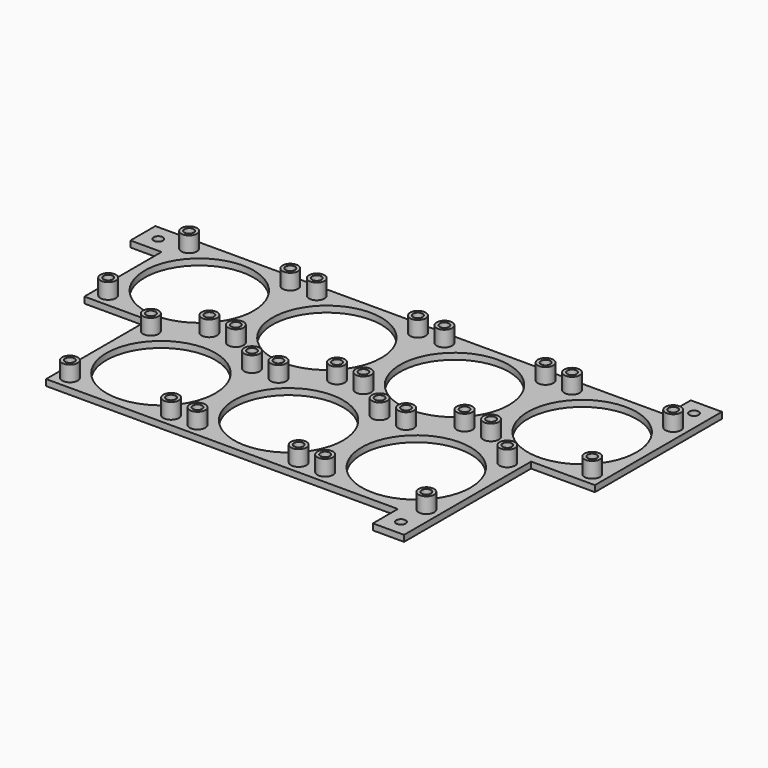
from build123d import *

# Parameters (mm, degrees)
SKETCH_R     = 17.5
PAD_DEPTH    = 2
SKETCH002_W  = 10
SKETCH002_H  = 2
PAD003_DEPTH = 10
SKETCH003_W  = 10
SKETCH003_H  = 2
PAD004_DEPTH = 10
SKETCH006_W  = 10
SKETCH006_H  = 2
PAD007_DEPTH = 10
SKETCH001_R  = 2.5
PAD006_DEPTH = 5
SKETCH005_R  = 1.5
POCKET_DEPTH = 7.001


with BuildPart() as part:
    # Sketch → Pad (new body)
    with BuildSketch(Plane.XY):
        Polygon((0, 0), (0, 20.5), (0, 41), (20.5, 41), (41, 41), (61.5, 41), (82, 41), (102.5, 41), (82, 41), (102.5, 41), (123, 41), (143.5, 41), (164, 41), (164, 20.5), (164, 0), (143.5, 0), (143.5, -20.5), (143.5, -41), (123, -41), (102.5, -41), (82, -41), (61.5, -41), (41, -41), (20.5, -41), (20.5, -20.5), (20.5, 0), align=None)
        with Locations((20.5, 20.5)):
            Circle(SKETCH_R, mode=Mode.SUBTRACT)
        with Locations((61.5, 20.5)):
            Circle(SKETCH_R, mode=Mode.SUBTRACT)
        with Locations((102.5, 20.5)):
            Circle(SKETCH_R, mode=Mode.SUBTRACT)
        with Locations((143.5, 20.5)):
            Circle(SKETCH_R, mode=Mode.SUBTRACT)
        with Locations((41, -20.5)):
            Circle(SKETCH_R, mode=Mode.SUBTRACT)
        with Locations((82, -20.5)):
            Circle(SKETCH_R, mode=Mode.SUBTRACT)
        with Locations((123, -20.5)):
            Circle(SKETCH_R, mode=Mode.SUBTRACT)
    extrude(amount=PAD_DEPTH)

    # Sketch002 → Pad003 (join)
    with BuildSketch(Plane(origin=(0, 0, 0), x_dir=(0, -1, 0), z_dir=(-1, 0, 0))):
        with Locations((-36, 1)):
            Rectangle(SKETCH002_W, SKETCH002_H)
    extrude(amount=PAD003_DEPTH)

    # Sketch003 (on Face14 of Pad003) → Pad004 (join)
    with BuildSketch(Plane.XZ.offset(41)):
        with Locations((138.5, 1)):
            Rectangle(SKETCH003_W, SKETCH003_H)
    extrude(amount=PAD004_DEPTH)

    # Sketch006 (on Face8 of Pad004) → Pad007 (join)
    with BuildSketch(Plane(origin=(0, 41, 0), x_dir=(-1, 0, 0), z_dir=(0, 1, 0))):
        with Locations((-159, 1)):
            Rectangle(SKETCH006_W, SKETCH006_H)
    extrude(amount=PAD007_DEPTH)

    # Sketch001 (on Face35 of Pad) → Pad006 (join)
    with BuildSketch(Plane.XY.offset(2)):
        with Locations((4.25, 36.75)):
            Circle(SKETCH001_R)
        with Locations((36.75, 36.75)):
            Circle(SKETCH001_R)
        with Locations((4.25, 4.25)):
            Circle(SKETCH001_R)
        with Locations((36.75, 4.25)):
            Circle(SKETCH001_R)
        with Locations((45.25, 36.75)):
            Circle(SKETCH001_R)
        with Locations((77.75, 36.75)):
            Circle(SKETCH001_R)
        with Locations((45.25, 4.25)):
            Circle(SKETCH001_R)
        with Locations((77.75, 4.25)):
            Circle(SKETCH001_R)
        with Locations((86.25, 36.75)):
            Circle(SKETCH001_R)
        with Locations((118.75, 36.75)):
            Circle(SKETCH001_R)
        with Locations((86.25, 4.25)):
            Circle(SKETCH001_R)
        with Locations((118.75, 4.25)):
            Circle(SKETCH001_R)
        with Locations((127.25, 36.75)):
            Circle(SKETCH001_R)
        with Locations((159.75, 36.75)):
            Circle(SKETCH001_R)
        with Locations((127.25, 4.25)):
            Circle(SKETCH001_R)
        with Locations((159.75, 4.25)):
            Circle(SKETCH001_R)
        with Locations((24.75, -4.25)):
            Circle(SKETCH001_R)
        with Locations((57.25, -4.25)):
            Circle(SKETCH001_R)
        with Locations((24.75, -36.75)):
            Circle(SKETCH001_R)
        with Locations((57.25, -36.75)):
            Circle(SKETCH001_R)
        with Locations((65.75, -4.25)):
            Circle(SKETCH001_R)
        with Locations((98.25, -4.25)):
            Circle(SKETCH001_R)
        with Locations((65.75, -36.75)):
            Circle(SKETCH001_R)
        with Locations((98.25, -36.75)):
            Circle(SKETCH001_R)
        with Locations((106.75, -4.25)):
            Circle(SKETCH001_R)
        with Locations((139.25, -4.25)):
            Circle(SKETCH001_R)
        with Locations((106.75, -36.75)):
            Circle(SKETCH001_R)
        with Locations((139.25, -36.75)):
            Circle(SKETCH001_R)
    extrude(amount=PAD006_DEPTH)

    # Sketch005 (on Face93 of Pad006) → Pocket (cut, through all)
    with BuildSketch(Plane.XY.offset(7)):
        with Locations((-5.058944, 36)):
            Circle(SKETCH005_R)
        with Locations((4.25, 36.75)):
            Circle(SKETCH005_R)
        with Locations((36.75, 36.75)):
            Circle(SKETCH005_R)
        with Locations((45.25, 36.75)):
            Circle(SKETCH005_R)
        with Locations((77.75, 36.75)):
            Circle(SKETCH005_R)
        with Locations((86.25, 36.75)):
            Circle(SKETCH005_R)
        with Locations((4.25, 4.25)):
            Circle(SKETCH005_R)
        with Locations((36.75, 4.25)):
            Circle(SKETCH005_R)
        with Locations((45.25, 4.25)):
            Circle(SKETCH005_R)
        with Locations((77.75, 4.25)):
            Circle(SKETCH005_R)
        with Locations((86.25, 4.25)):
            Circle(SKETCH005_R)
        with Locations((118.75, 36.75)):
            Circle(SKETCH005_R)
        with Locations((118.75, 4.25)):
            Circle(SKETCH005_R)
        with Locations((127.25, 36.75)):
            Circle(SKETCH005_R)
        with Locations((127.25, 4.25)):
            Circle(SKETCH005_R)
        with Locations((159.75, 36.75)):
            Circle(SKETCH005_R)
        with Locations((159.75, 4.25)):
            Circle(SKETCH005_R)
        with Locations((106.75, -4.25)):
            Circle(SKETCH005_R)
        with Locations((139.25, -4.25)):
            Circle(SKETCH005_R)
        with Locations((139.25, -36.75)):
            Circle(SKETCH005_R)
        with Locations((106.75, -36.75)):
            Circle(SKETCH005_R)
        with Locations((24.75, -4.25)):
            Circle(SKETCH005_R)
        with Locations((57.25, -4.25)):
            Circle(SKETCH005_R)
        with Locations((65.75, -4.25)):
            Circle(SKETCH005_R)
        with Locations((98.25, -4.25)):
            Circle(SKETCH005_R)
        with Locations((24.75, -36.75)):
            Circle(SKETCH005_R)
        with Locations((57.25, -36.75)):
            Circle(SKETCH005_R)
        with Locations((65.75, -36.75)):
            Circle(SKETCH005_R)
        with Locations((98.25, -36.75)):
            Circle(SKETCH005_R)
        with Locations((138.5, -46)):
            Circle(SKETCH005_R)
        with Locations((159, 46)):
            Circle(SKETCH005_R)
    extrude(amount=-POCKET_DEPTH, mode=Mode.SUBTRACT)


solid = part.part
